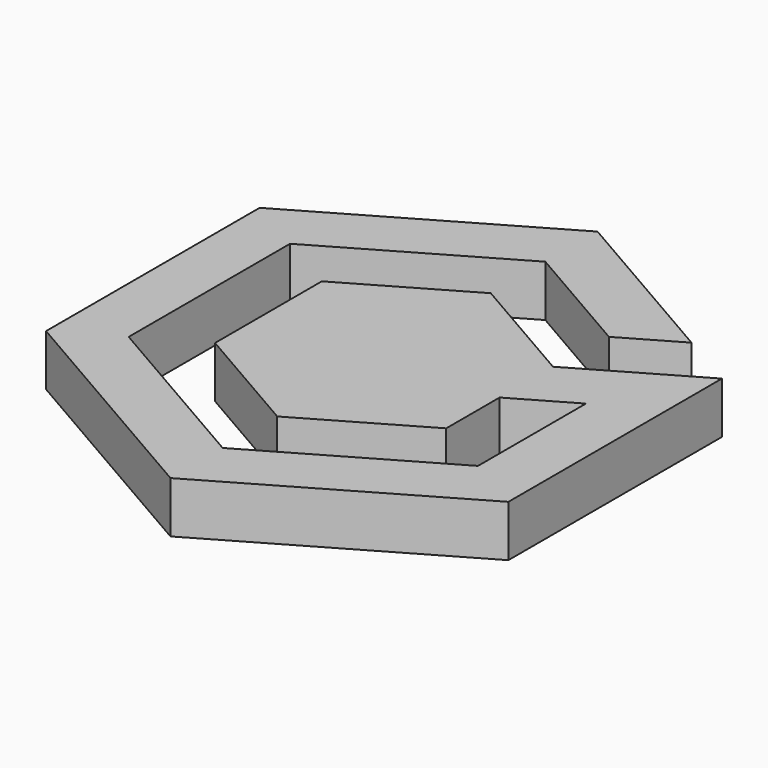
from build123d import *

# Parameters (mm, degrees)
F1_DEPTH = 5


with BuildPart() as f1:
    # F0 (on Top) → F1 (new body)
    with BuildSketch(Plane.XY):
        Polygon((-22.5, -12.990381), (0, -25.980762), (0, -19.629909), (-17, -9.814955), (-17, 9.814955), (-22.5, 12.990381), align=None)
        Polygon((11.5, 12.990381), (17, 16.165808), (0, 25.980762), (-22.5, 12.990381), (-17, 9.814955), (0, 19.629909), align=None)
        Polygon((22.5, -12.990381), (22.5, 12.990381), (17, 9.814955), (17, 3.319764), (17, -9.814955), (0, -19.629909), (0, -25.980762), align=None)
        Polygon((0, 0), (11.25, 6.495191), (0, 12.990381), (-11.25, 6.495191), align=None)
        Polygon((0, -12.990381), (0, 0), (-11.25, 6.495191), (-11.25, -6.495191), align=None)
        Polygon((11.25, 0), (11.25, 6.495191), (0, 0), (0, -12.990381), (11.25, -6.495191), align=None)
        Polygon((17, 3.319764), (17, 9.814955), (11.25, 6.495191), (11.25, 0), align=None)
    extrude(amount=F1_DEPTH)


solid = f1.part
